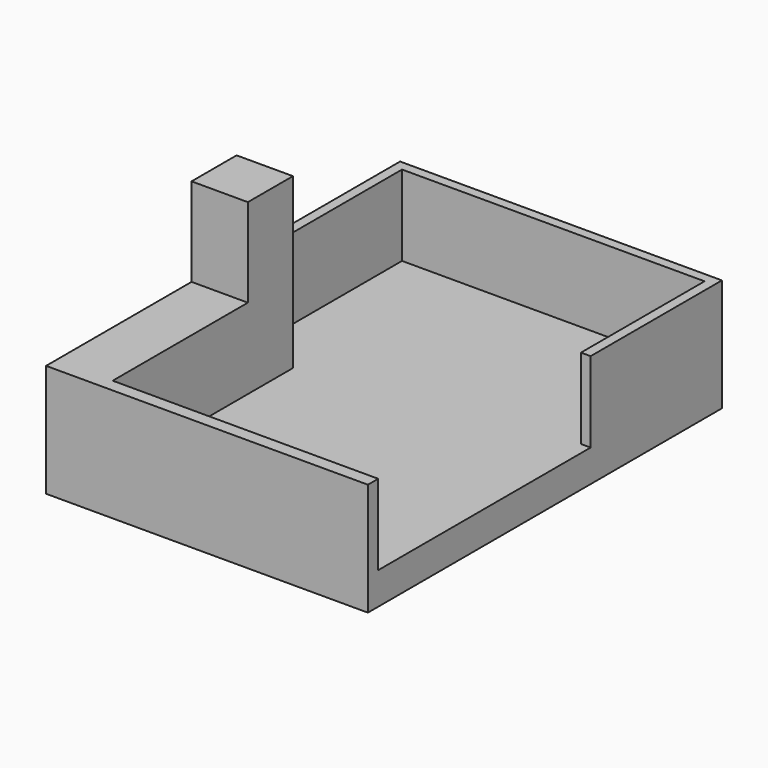
from build123d import *

# Parameters (mm, degrees)
F1_DEPTH = 4
F2_DEPTH = 14
F0_W     = 7
F0_H     = 7
F3_DEPTH = 25


with BuildPart() as f1:
    # F0 (on Top) → F1 (new body)
    with BuildSketch(Plane.XY):
        Polygon((7, 1.6), (40, 1.6), (40, 34.6), (38.8, 34.6), (38.8, 53.8), (1.2, 53.8), (1.2, 34.6), (0, 34.6), (0, 29.6), (7, 29.6), (7, 22.6), align=None)
    extrude(amount=F1_DEPTH)

    # F0 (on Top) → F2 (join)
    with BuildSketch(Plane.XY):
        Polygon((0, 22.6), (0, 0), (40, 0), (40, 1.6), (7, 1.6), (7, 22.6), align=None)
        Polygon((38.8, 34.6), (40, 34.6), (40, 55), (0, 55), (0, 34.6), (1.2, 34.6), (1.2, 53.8), (38.8, 53.8), align=None)
    extrude(amount=F2_DEPTH)

    # F0 (on Top) → F3 (join)
    with BuildSketch(Plane.XY):
        with Locations((3.5, 26.1)):
            Rectangle(F0_W, F0_H)
    extrude(amount=F3_DEPTH)


solid = f1.part
